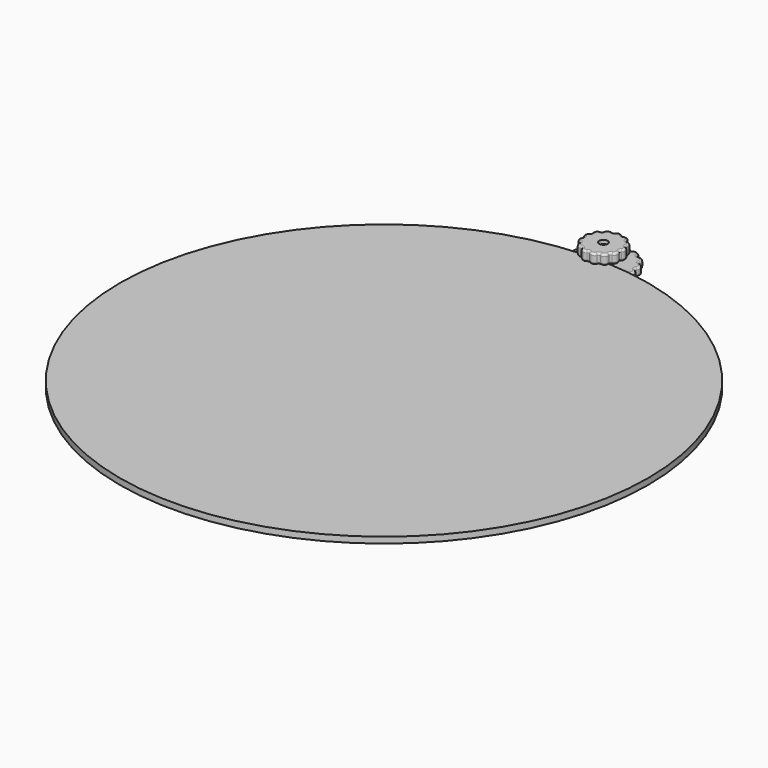
from build123d import *

# Parameters (mm, degrees)
F2_DEPTH  = 4
F4_DEPTH  = 3
F5_R      = 5
F6_R      = 1.6
F7_DEPTH  = 25
F9_DEPTH  = 5
F10_R     = 1
F11_R     = 4.9
F12_DEPTH = 3
F14_DEPTH = 4
F15_R     = 1
F16_R     = 1
F18_R     = 2.1
F19_DEPTH = 25
F21_DEPTH = 3.2
F23_DEPTH = 3.2
F24_R     = 1.6
F25_DEPTH = 4
F27_DEPTH = 3
F28_R     = 1.6
F29_DEPTH = 25
F30_R     = 2
F31_DEPTH = 25
F33_DEPTH = 3.1
F34_R     = 3
F35_DEPTH = 3
F36_R     = 130
F37_DEPTH = 3
F39_DEPTH = 0.2
F40_R     = 1
F41_R     = 2.1
F42_DEPTH = 25


with BuildPart() as f2:
    # F1 (on Top) → F2 (new body)
    with BuildSketch(Plane.XY):
        with BuildLine():
            ThreePointArc((0, 120), (3.7518341912, 119.9413345774), (7.5, 119.76539567))
            Line((7.5, 119.76539567), (7.5, 129.7834735242))
            ThreePointArc((7.5, 129.7834735242), (3.751562465, 129.9458571062), (0, 130))
            Line((0, 130), (0, 120))
        make_face()
        with BuildLine():
            ThreePointArc((-7.5, 119.76539567), (-3.7518341912, 119.9413345774), (0, 120))
            Line((0, 120), (0, 130))
            ThreePointArc((0, 130), (-3.751562465, 129.9458571062), (-7.5, 129.7834735242))
            Line((-7.5, 129.7834735242), (-7.5, 119.76539567))
        make_face()
        with BuildLine():
            ThreePointArc((0, 130), (3.751562465, 129.9458571062), (7.5, 129.7834735242))
            Line((7.5, 129.7834735242), (7.5, 132.5))
            ThreePointArc((7.5, 132.5), (5.3033008589, 137.8033008589), (0, 140))
            Line((0, 140), (0, 130))
        make_face()
        with BuildLine():
            ThreePointArc((-7.5, 129.7834735242), (-3.751562465, 129.9458571062), (0, 130))
            Line((0, 130), (0, 140))
            ThreePointArc((0, 140), (-5.3033008589, 137.8033008589), (-7.5, 132.5))
            Line((-7.5, 132.5), (-7.5, 129.7834735242))
        make_face()
    extrude(amount=F2_DEPTH)

    # F3 (on face) → F4 (cut)
    with BuildSketch(Plane.XY.offset(4)):
        with BuildLine():
            Line((7.5, 119.76539567), (7.5, 129.7834735242))
            ThreePointArc((7.5, 129.7834735242), (0, 130), (-7.5, 129.7834735242))
            Line((-7.5, 129.7834735242), (-7.5, 119.76539567))
            ThreePointArc((-7.5, 119.76539567), (0, 120), (7.5, 119.76539567))
        make_face()
    extrude(amount=-F4_DEPTH, mode=Mode.SUBTRACT)

    # F5
    f5_edges = [f2.edges().sort_by_distance(p)[0] for p in [
        (7.5, 119.765396, 0.5),
        (-7.5, 119.765396, 0.5),
    ]]
    fillet(f5_edges, radius=F5_R)

    # F6 (on face) → F7 (cut)
    with BuildSketch(Plane.XY.offset(4)):
        with Locations((0, 135)):
            Circle(F6_R)
    extrude(amount=-F7_DEPTH, mode=Mode.SUBTRACT)


with BuildPart() as f9:
    # F8 (on face) → F9 (new body)
    with BuildSketch(Plane(origin=(0, 0, 0), x_dir=(1, 0, 0), z_dir=(0, 0, -1))):
        with BuildLine():
            ThreePointArc((-2.8470176557, -143.884138021), (-2.1723181311, -143.8134411115), (-1.6077558636, -144.1895886193))
            ThreePointArc((-1.6077558636, -144.1895886193), (0, -145), (1.6077558636, -144.1895886193))
            ThreePointArc((1.6077558636, -144.1895886193), (2.1723181311, -143.8134411115), (2.8470176557, -143.884138021))
            ThreePointArc((2.8470176557, -143.884138021), (4.6472317204, -143.8545602565), (5.6942118901, -142.3898152114))
            ThreePointArc((5.6942118901, -142.3898152114), (6.0193024888, -141.7943879663), (6.6495737404, -141.5434384676))
            ThreePointArc((6.6495737404, -141.5434384676), (8.2298386589, -140.6806474673), (8.4761925953, -138.8971241955))
            ThreePointArc((8.4761925953, -138.8971241955), (8.4873371867, -138.2188224193), (8.9287926172, -137.7037160183))
            ThreePointArc((8.9287926172, -137.7037160183), (9.927088741, -136.2053668026), (9.3163797261, -134.5116489919))
            ThreePointArc((9.3163797261, -134.5116489919), (9.0110252187, -133.9058634471), (9.162532709, -133.2446048124))
            ThreePointArc((9.162532709, -133.2446048124), (9.3501624269, -131.4539511296), (8.0222965362, -130.238049119))
            ThreePointArc((8.0222965362, -130.238049119), (7.4703959677, -129.8435579733), (7.2972469777, -129.1876334893))
            ThreePointArc((7.2972469777, -129.1876334893), (6.6312265824, -127.5148925183), (4.890401889, -127.0553548051))
            ThreePointArc((4.890401889, -127.0553548051), (4.2183890285, -126.9625312261), (3.7602499051, -126.4622052871))
            ThreePointArc((3.7602499051, -126.4622052871), (2.3931566429, -125.2905818257), (0.6381751048, -125.6926829621))
            ThreePointArc((0.6381751048, -125.6926829621), (0, -125.9227917129), (-0.6381751048, -125.6926829621))
            ThreePointArc((-0.6381751048, -125.6926829621), (-2.3931566429, -125.2905818257), (-3.7602499051, -126.4622052871))
            ThreePointArc((-3.7602499051, -126.4622052871), (-4.2183890285, -126.9625312261), (-4.890401889, -127.0553548051))
            ThreePointArc((-4.890401889, -127.0553548051), (-6.6312265824, -127.5148925183), (-7.2972469777, -129.1876334893))
            ThreePointArc((-7.2972469777, -129.1876334893), (-7.4703959677, -129.8435579733), (-8.0222965362, -130.238049119))
            ThreePointArc((-8.0222965362, -130.238049119), (-9.3501624269, -131.4539511296), (-9.162532709, -133.2446048124))
            ThreePointArc((-9.162532709, -133.2446048124), (-9.0110252187, -133.9058634471), (-9.3163797261, -134.5116489919))
            ThreePointArc((-9.3163797261, -134.5116489919), (-9.927088741, -136.2053668026), (-8.9287926172, -137.7037160183))
            ThreePointArc((-8.9287926172, -137.7037160183), (-8.4873371867, -138.2188224193), (-8.4761925953, -138.8971241955))
            ThreePointArc((-8.4761925953, -138.8971241955), (-8.2298386589, -140.6806474673), (-6.6495737404, -141.5434384676))
            ThreePointArc((-6.6495737404, -141.5434384676), (-6.0193024888, -141.7943879663), (-5.6942118901, -142.3898152114))
            ThreePointArc((-5.6942118901, -142.3898152114), (-4.6472317204, -143.8545602565), (-2.8470176557, -143.884138021))
        make_face()
    extrude(amount=F9_DEPTH)

    # F10
    f10_edges = [f9.edges().sort_by_distance(p)[0] for p in [
        (-8.487337, 138.218822, 0),
        (-8.229839, 140.680647, 0),
        (-6.019302, 141.794388, 0),
        (-4.647232, 143.85456, 0),
        (-2.172318, 143.813441, 0),
        (0, 145, 0),
        (2.172318, 143.813441, 0),
        (4.647232, 143.85456, 0),
        (6.019302, 141.794388, 0),
        (8.229839, 140.680647, 0),
        (8.487337, 138.218822, 0),
        (9.927089, 136.205367, 0),
        (9.011025, 133.905863, 0),
        (9.350162, 131.453951, 0),
        (7.470396, 129.843558, 0),
        (6.631227, 127.514893, 0),
        (4.218389, 126.962531, 0),
        (2.393157, 125.290582, 0),
        (0, 125.922792, 0),
        (-2.393157, 125.290582, 0),
        (-4.218389, 126.962531, 0),
        (-6.631227, 127.514893, 0),
        (-7.470396, 129.843558, 0),
        (-9.350162, 131.453951, 0),
        (-9.011025, 133.905863, 0),
        (-9.927089, 136.205367, 0),
        (-8.487337, 138.218822, -5),
        (-8.229839, 140.680647, -5),
        (-6.019302, 141.794388, -5),
        (-4.647232, 143.85456, -5),
        (-2.172318, 143.813441, -5),
        (0, 145, -5),
        (2.172318, 143.813441, -5),
        (4.647232, 143.85456, -5),
        (6.019302, 141.794388, -5),
        (8.229839, 140.680647, -5),
        (8.487337, 138.218822, -5),
        (9.927089, 136.205367, -5),
        (9.011025, 133.905863, -5),
        (9.350162, 131.453951, -5),
        (7.470396, 129.843558, -5),
        (6.631227, 127.514893, -5),
        (4.218389, 126.962531, -5),
        (2.393157, 125.290582, -5),
        (0, 125.922792, -5),
        (-2.393157, 125.290582, -5),
        (-4.218389, 126.962531, -5),
        (-6.631227, 127.514893, -5),
        (-7.470396, 129.843558, -5),
        (-9.350162, 131.453951, -5),
        (-9.011025, 133.905863, -5),
        (-9.927089, 136.205367, -5),
    ]]
    fillet(f10_edges, radius=F10_R)


with BuildPart() as f12:
    # F11 (on face) → F12 (new body)
    with BuildSketch(Plane(origin=(0, 0, -5), x_dir=(1, 0, 0), z_dir=(0, 0, -1))):
        with Locations((0, -135)):
            Circle(F11_R)
    extrude(amount=F12_DEPTH)

    # F13 (on face) → F14 (join)
    with BuildSketch(Plane(origin=(0, 0, -8), x_dir=(1, 0, 0), z_dir=(0, 0, -1))):
        with BuildLine():
            ThreePointArc((10.6514173504, -142.1170495371), (13.8581929877, -140.7402514855), (12.5642034275, -137.499175448))
            ThreePointArc((12.5642034275, -137.499175448), (15, -135), (12.5642034275, -132.500824552))
            ThreePointArc((12.5642034275, -132.500824552), (13.8581929877, -129.2597485145), (10.6514173504, -127.8829504629))
            ThreePointArc((10.6514173504, -127.8829504629), (10.6066017178, -124.3933982822), (7.1170495371, -124.3485826496))
            ThreePointArc((7.1170495371, -124.3485826496), (5.7402514855, -121.1418070123), (2.499175448, -122.4357965725))
            ThreePointArc((2.499175448, -122.4357965725), (0, -120), (-2.499175448, -122.4357965725))
            ThreePointArc((-2.499175448, -122.4357965725), (-5.7402514855, -121.1418070123), (-7.1170495371, -124.3485826496))
            ThreePointArc((-7.1170495371, -124.3485826496), (-10.6066017178, -124.3933982822), (-10.6514173504, -127.8829504629))
            ThreePointArc((-10.6514173504, -127.8829504629), (-13.8581929877, -129.2597485145), (-12.5642034275, -132.500824552))
            ThreePointArc((-12.5642034275, -132.500824552), (-15, -135), (-12.5642034275, -137.499175448))
            ThreePointArc((-12.5642034275, -137.499175448), (-13.8581929877, -140.7402514855), (-10.6514173504, -142.1170495371))
            ThreePointArc((-10.6514173504, -142.1170495371), (-10.6066017178, -145.6066017178), (-7.1170495371, -145.6514173504))
            ThreePointArc((-7.1170495371, -145.6514173504), (-5.7402514855, -148.8581929877), (-2.499175448, -147.5642034275))
            ThreePointArc((-2.499175448, -147.5642034275), (0, -150), (2.499175448, -147.5642034275))
            ThreePointArc((2.499175448, -147.5642034275), (5.7402514855, -148.8581929877), (7.1170495371, -145.6514173504))
            ThreePointArc((7.1170495371, -145.6514173504), (10.6066017178, -145.6066017178), (10.6514173504, -142.1170495371))
        make_face()
    extrude(amount=F14_DEPTH)

    # F15
    f15_edges = [f12.edges().sort_by_distance(p)[0] for p in [
        (10.651417, 127.88295, -10),
        (12.564203, 132.500825, -10),
        (7.11705, 124.348583, -10),
        (2.499175, 122.435797, -10),
        (-2.499175, 122.435797, -10),
        (-7.11705, 124.348583, -10),
        (-10.651417, 127.88295, -10),
        (-12.564203, 132.500825, -10),
        (-12.564203, 137.499175, -10),
        (-10.651417, 142.11705, -10),
        (-7.11705, 145.651417, -10),
        (-2.499175, 147.564203, -10),
        (2.499175, 147.564203, -10),
        (7.11705, 145.651417, -10),
        (10.651417, 142.11705, -10),
        (12.564203, 137.499175, -10),
    ]]
    fillet(f15_edges, radius=F15_R)

    # F16
    f16_edges = [f12.edges().sort_by_distance(p)[0] for p in [
        (5.740251, 148.858193, -8),
        (10.606602, 145.606602, -12),
    ]]
    fillet(f16_edges, radius=F16_R)


with BuildPart() as f19_tool:
    # F18 (on face) → F19 (new body)
    with BuildSketch(Plane.XY):
        with Locations((0, 135)):
            Circle(F18_R)
    extrude(amount=-F19_DEPTH)


with BuildPart() as f9_1:
    add(f9.part)

    # F19: cut by f19_tool
    add(f19_tool.part, mode=Mode.SUBTRACT)

    # F22 (on face) → F23 (cut)
    with BuildSketch(Plane(origin=(0, 0, -5), x_dir=(1, 0, 0), z_dir=(0, 0, -1))):
        Polygon((-0.1221244266, -139.0973673203), (3.4873619747, -137.1544465161), (3.6094864014, -133.0570791957), (0.1221244266, -130.9026326797), (-3.4873619747, -132.8455534839), (-3.6094864014, -136.9429208043), align=None)
    extrude(amount=-F23_DEPTH, mode=Mode.SUBTRACT)

    # F41 (on face) → F42 (cut)
    with BuildSketch(Plane(origin=(0, 0, -12), x_dir=(1, 0, 0), z_dir=(0, 0, -1))):
        with Locations((0, -135)):
            Circle(F41_R)
    extrude(amount=-F42_DEPTH, mode=Mode.SUBTRACT)


with BuildPart() as f12_1:
    add(f12.part)

    # F19: cut by f19_tool
    add(f19_tool.part, mode=Mode.SUBTRACT)

    # F20 (on face) → F21 (cut)
    with BuildSketch(Plane(origin=(0, 0, -12), x_dir=(1, 0, 0), z_dir=(0, 0, -1))):
        Polygon((3.55, -137.0495934556), (3.55, -132.9504065444), (0, -130.9008130888), (-3.55, -132.9504065444), (-3.55, -137.0495934556), (0, -139.0991869112), align=None)
    extrude(amount=-F21_DEPTH, mode=Mode.SUBTRACT)

    # F38 (on face) → F39 (cut)
    with BuildSketch(Plane.XY.offset(-8)):
        Polygon((1.25, 124.2), (-1.25, 124.2), (0, 121), align=None)
    extrude(amount=-F39_DEPTH, mode=Mode.SUBTRACT)


with BuildPart() as f25:
    # F24 (on face) → F25 (new body)
    with BuildSketch(Plane(origin=(0, 0, -12), x_dir=(1, 0, 0), z_dir=(0, 0, -1))):
        with BuildLine():
            ThreePointArc((-7.5, -135), (0, -142.5), (7.5, -135))
            Line((7.5, -135), (7.5, -114))
            ThreePointArc((7.5, -114), (6.3284271247, -111.1715728753), (3.5, -110))
            Line((3.5, -110), (-3.5, -110))
            ThreePointArc((-3.5, -110), (-6.3284271247, -111.1715728753), (-7.5, -114))
            Line((-7.5, -114), (-7.5, -135))
        make_face()
        with Locations((0, -115)):
            Circle(F24_R, mode=Mode.SUBTRACT)
    extrude(amount=F25_DEPTH)

    # F26 (on face) → F27 (join)
    with BuildSketch(Plane.XY.offset(-12)):
        with BuildLine():
            ThreePointArc((7.5, 120.8667059749), (0, 119), (-7.5, 120.8667059749))
            Line((-7.5, 120.8667059749), (-7.5, 114))
            ThreePointArc((-7.5, 114), (-6.3284271247, 111.1715728753), (-3.5, 110))
            Line((-3.5, 110), (3.5, 110))
            ThreePointArc((3.5, 110), (6.3284271247, 111.1715728753), (7.5, 114))
            Line((7.5, 114), (7.5, 120.8667059749))
        make_face()
    extrude(amount=F27_DEPTH)

    # F28 (on face) → F29 (cut)
    with BuildSketch(Plane.XY.offset(-9)):
        with Locations((0, 115)):
            Circle(F28_R)
    extrude(amount=-F29_DEPTH, mode=Mode.SUBTRACT)

    # F30 (on face) → F31 (cut)
    with BuildSketch(Plane(origin=(0, 0, -16), x_dir=(1, 0, 0), z_dir=(0, 0, -1))):
        with Locations((0, -135)):
            Circle(F30_R)
    extrude(amount=-F31_DEPTH, mode=Mode.SUBTRACT)

    # F32 (on face) → F33 (cut)
    with BuildSketch(Plane.XY.offset(-12)):
        Polygon((3.55, 132.9504065444), (3.55, 137.0495934556), (0, 139.0991869112), (-3.55, 137.0495934556), (-3.55, 132.9504065444), (0, 130.9008130888), align=None)
    extrude(amount=-F33_DEPTH, mode=Mode.SUBTRACT)

    # F34 (on face) → F35 (cut)
    with BuildSketch(Plane.XY.offset(-9)):
        with Locations((0, 115)):
            Circle(F34_R)
    extrude(amount=-F35_DEPTH, mode=Mode.SUBTRACT)

    # F40
    f40_edges = [f25.edges().sort_by_distance(p)[0] for p in [
        (7.5, 120.866706, -10.5),
        (-7.5, 120.866706, -10.5),
    ]]
    fillet(f40_edges, radius=F40_R)


with BuildPart() as f37:
    # F36 (on face) → F37 (new body)
    with BuildSketch(Plane.XY.offset(-8)):
        Circle(F36_R)
    extrude(amount=F37_DEPTH)


solid = Compound([f9_1.part, f12_1.part, f25.part, f37.part])
